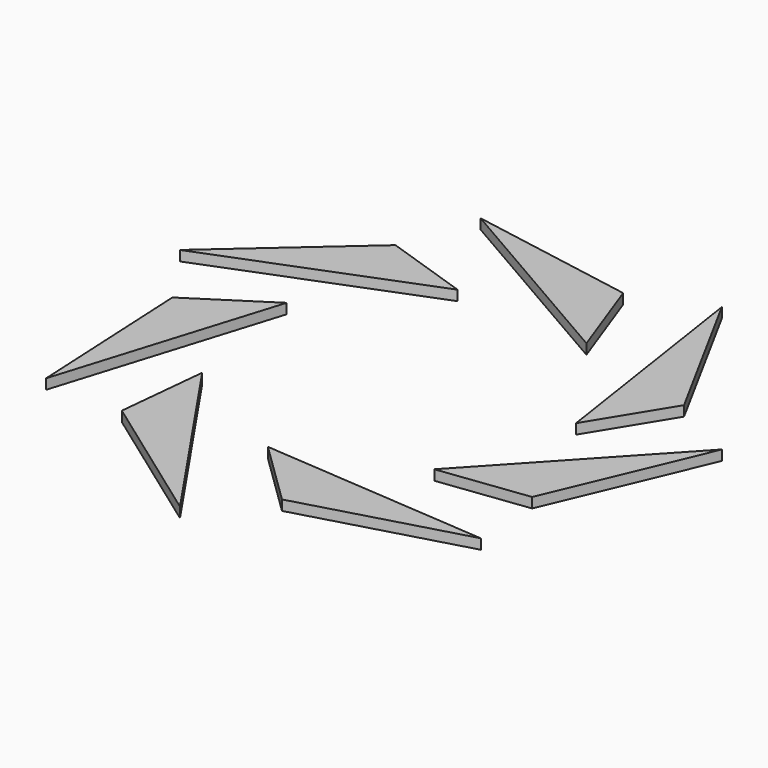
from build123d import *

# Parameters (mm, degrees)
F1_DEPTH = 3


with BuildPart() as f1:
    # F0 (on Top) → F1 (new body)
    with BuildSketch(Plane.XY):
        Polygon((13.380377, 65.439197), (-35.86001, 74.121606), (22.479633, 40.439197), align=None)
        Polygon((-80.308956, 18.17758), (-17.600815, 42.788712), (-42.819896, 51.261872), align=None)
        Polygon((-64.28362, -51.454534), (-44.427491, 12.917454), (-66.775914, -1.516688), align=None)
        Polygon((0.148593, -82.340335), (-37.79936, -26.68091), (-40.448307, -53.153151), align=None)
        Polygon((64.468912, -51.222184), (-2.70754, -46.188005), (16.3377, -64.764207), align=None)
        Polygon((80.242826, 18.467316), (34.423113, -30.91459), (60.821086, -27.606495), align=None)
        Polygon((35.592254, 74.25055), (45.632459, 7.638142), (59.504953, 30.339472), align=None)
    extrude(amount=F1_DEPTH)


solid = f1.part
